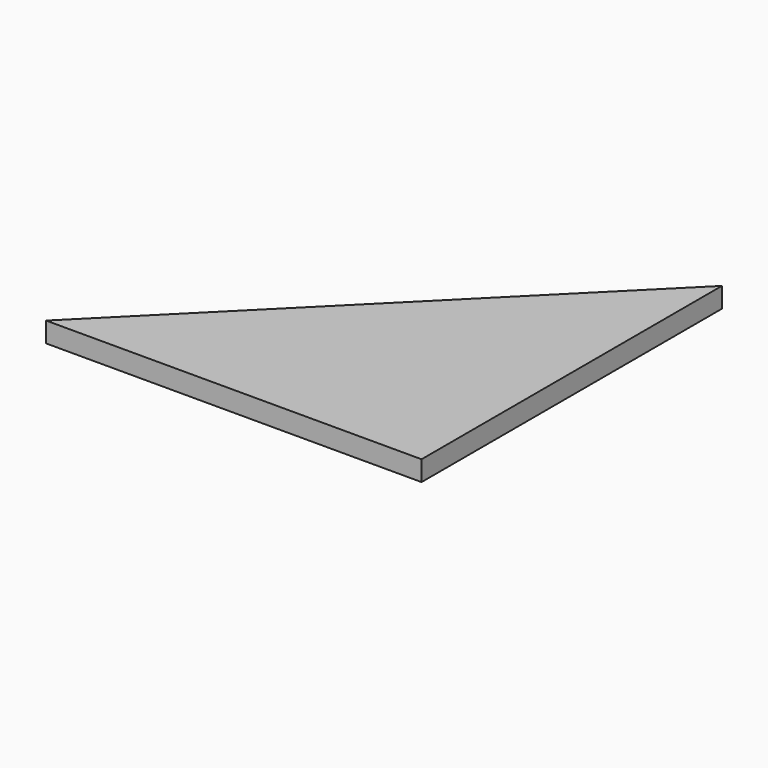
from build123d import *

# Parameters (mm, degrees)
PAD_DEPTH = 3


with BuildPart() as part:
    # Sketch → Pad (new body)
    with BuildSketch(Plane.XY):
        Polygon((0, 0), (-56, 0), (0, 56), align=None)
    extrude(amount=PAD_DEPTH)


solid = part.part
